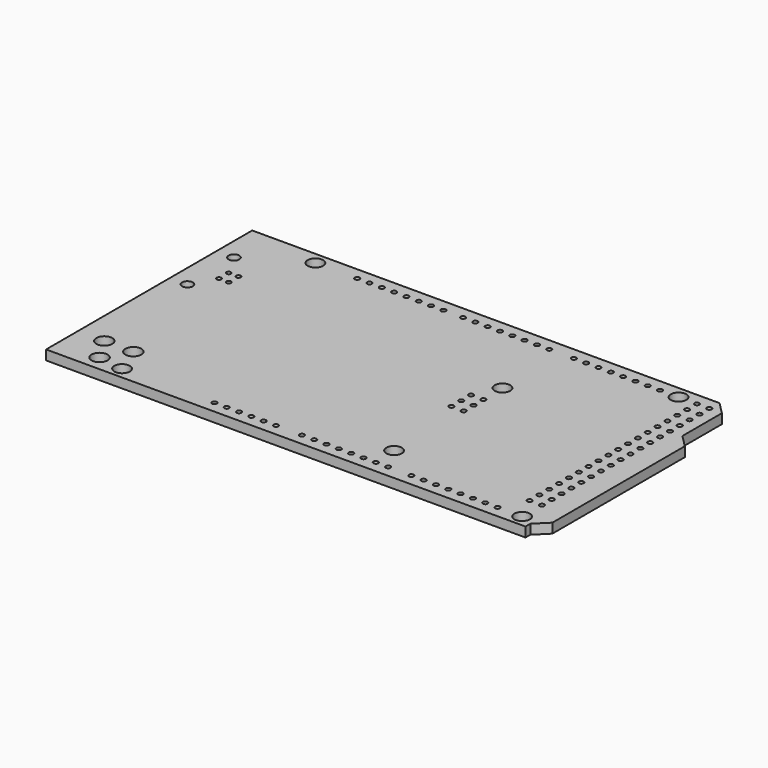
from build123d import *

# Parameters (mm, degrees)
PAD003_DEPTH        = 2
SKETCH005_R         = 1.6
POCKET001_DEPTH     = 2.001
SKETCH006_R         = 1.65
POCKET002_DEPTH     = 2.001
SKETCH007_R         = 1.1
SKETCH007_R_2       = 0.475
POCKET003_DEPTH     = 2.001
SKETCH008_R         = 0.5
POCKET004_DEPTH     = 2.001
SKETCH009_R         = 0.5
POCKET005_DEPTH     = 2.001
SKETCH010_R         = 0.5
POCKET006_DEPTH     = 2.001
SKETCH011_R         = 0.5
POCKET007_DEPTH     = 2.001
SKETCH012_R         = 0.5
POCKET008_DEPTH     = 2.001
SKETCH013_R         = 0.5
POCKET009_DEPTH     = 2.001
SKETCH014_R         = 0.5
POCKET010_DEPTH     = 2.001
SKETCH015_R         = 0.5
POCKET011_DEPTH     = 2.001
LINEARPATTERN_COUNT = 18
LINEARPATTERN_PITCH = 2.54


with BuildPart() as part:
    # Sketch004 → Pad003 (new body)
    with BuildSketch(Plane.XY):
        Polygon((-50.7275, -26.5825), (-50.7275, 26.5825), (45.6905, 26.5825), (48.1905, 24.0825), (48.1905, 13.8825), (50.7275, 11.3455), (50.7275, -22.8245), (48.1905, -25.3225), (48.1905, -26.5825), align=None)
    extrude(amount=PAD003_DEPTH)

    # Sketch005 → Pocket001 (cut, through all)
    with BuildSketch(Plane.XY.offset(2)):
        with Locations((-35.6964, 24.084)):
            Circle(SKETCH005_R)
        with Locations((39.234, 24.084)):
            Circle(SKETCH005_R)
        with Locations((-36.966, -24.176)):
            Circle(SKETCH005_R)
        with Locations((15.1, -19.1)):
            Circle(SKETCH005_R)
        with Locations((15.1, 8.844)):
            Circle(SKETCH005_R)
        with Locations((45.58, -24.18)):
            Circle(SKETCH005_R)
    extrude(amount=-POCKET001_DEPTH, mode=Mode.SUBTRACT)

    # Sketch006 → Pocket002 (cut, through all)
    with BuildSketch(Plane.XY.offset(2)):
        with Locations((-45.25, -18.41)):
            Circle(SKETCH006_R)
        with Locations((-39.25, -18.41)):
            Circle(SKETCH006_R)
        with Locations((-42.243446, -23.38666)):
            Circle(SKETCH006_R)
    extrude(amount=-POCKET002_DEPTH, mode=Mode.SUBTRACT)

    # Sketch007 → Pocket003 (cut, through all)
    with BuildSketch(Plane.XY.offset(2)):
        with Locations((-47.13, 17.38)):
            Circle(SKETCH007_R)
        with Locations((-47.13, 5.38)):
            Circle(SKETCH007_R)
        with Locations((-44.42, 12.64)):
            Circle(SKETCH007_R_2)
        with Locations((-42.42, 12.64)):
            Circle(SKETCH007_R_2)
        with Locations((-44.42, 10.14)):
            Circle(SKETCH007_R_2)
        with Locations((-42.42, 10.14)):
            Circle(SKETCH007_R_2)
    extrude(amount=-POCKET003_DEPTH, mode=Mode.SUBTRACT)

    # Sketch008 → Pocket004 (cut, through all)
    with BuildSketch(Plane.XY.offset(2)):
        with Locations((12.6801, -1.3)):
            Circle(SKETCH008_R)
        with Locations((15.2201, -1.3)):
            Circle(SKETCH008_R)
        with Locations((15.2201, 1.24)):
            Circle(SKETCH008_R)
        with Locations((12.6801, 1.24)):
            Circle(SKETCH008_R)
        with Locations((12.6801, 3.78)):
            Circle(SKETCH008_R)
        with Locations((15.2201, 3.78)):
            Circle(SKETCH008_R)
    extrude(amount=-POCKET004_DEPTH, mode=Mode.SUBTRACT)

    # Sketch009 → Pocket005 (cut, through all)
    with BuildSketch(Plane.XY.offset(2)):
        with Locations((-27.06, 24.084)):
            Circle(SKETCH009_R)
        with Locations((-24.52, 24.084)):
            Circle(SKETCH009_R)
        with Locations((-21.98, 24.084)):
            Circle(SKETCH009_R)
        with Locations((-19.44, 24.084)):
            Circle(SKETCH009_R)
        with Locations((-16.9, 24.084)):
            Circle(SKETCH009_R)
        with Locations((-14.36, 24.084)):
            Circle(SKETCH009_R)
        with Locations((-11.82, 24.084)):
            Circle(SKETCH009_R)
        with Locations((-9.28, 24.084)):
            Circle(SKETCH009_R)
    extrude(amount=-POCKET005_DEPTH, mode=Mode.SUBTRACT)

    # Sketch010 → Pocket006 (cut, through all)
    with BuildSketch(Plane.XY.offset(2)):
        with Locations((-5.216, 24.084)):
            Circle(SKETCH010_R)
        with Locations((-2.676, 24.084)):
            Circle(SKETCH010_R)
        with Locations((-0.136, 24.084)):
            Circle(SKETCH010_R)
        with Locations((2.404, 24.084)):
            Circle(SKETCH010_R)
        with Locations((4.944, 24.084)):
            Circle(SKETCH010_R)
        with Locations((7.484, 24.084)):
            Circle(SKETCH010_R)
        with Locations((10.024, 24.084)):
            Circle(SKETCH010_R)
        with Locations((12.564, 24.084)):
            Circle(SKETCH010_R)
    extrude(amount=-POCKET006_DEPTH, mode=Mode.SUBTRACT)

    # Sketch011 → Pocket007 (cut, through all)
    with BuildSketch(Plane.XY.offset(2)):
        with Locations((17.644, 24.084)):
            Circle(SKETCH011_R)
        with Locations((20.184, 24.084)):
            Circle(SKETCH011_R)
        with Locations((22.724, 24.084)):
            Circle(SKETCH011_R)
        with Locations((25.264, 24.084)):
            Circle(SKETCH011_R)
        with Locations((27.804, 24.084)):
            Circle(SKETCH011_R)
        with Locations((30.344, 24.084)):
            Circle(SKETCH011_R)
        with Locations((32.884, 24.084)):
            Circle(SKETCH011_R)
        with Locations((35.424, 24.084)):
            Circle(SKETCH011_R)
    extrude(amount=-POCKET007_DEPTH, mode=Mode.SUBTRACT)

    # Sketch012 → Pocket008 (cut, through all)
    with BuildSketch(Plane.XY.offset(2)):
        with Locations((-17.916, -24.176)):
            Circle(SKETCH012_R)
        with Locations((-15.376, -24.176)):
            Circle(SKETCH012_R)
        with Locations((-12.836, -24.176)):
            Circle(SKETCH012_R)
        with Locations((-10.296, -24.176)):
            Circle(SKETCH012_R)
        with Locations((-7.756, -24.176)):
            Circle(SKETCH012_R)
        with Locations((-5.216, -24.176)):
            Circle(SKETCH012_R)
    extrude(amount=-POCKET008_DEPTH, mode=Mode.SUBTRACT)

    # Sketch013 → Pocket009 (cut, through all)
    with BuildSketch(Plane.XY.offset(2)):
        with Locations((0.136, -24.176)):
            Circle(SKETCH013_R)
        with Locations((2.676, -24.176)):
            Circle(SKETCH013_R)
        with Locations((5.216, -24.176)):
            Circle(SKETCH013_R)
        with Locations((7.756, -24.176)):
            Circle(SKETCH013_R)
        with Locations((10.296, -24.176)):
            Circle(SKETCH013_R)
        with Locations((12.836, -24.176)):
            Circle(SKETCH013_R)
        with Locations((15.376, -24.176)):
            Circle(SKETCH013_R)
        with Locations((17.916, -24.176)):
            Circle(SKETCH013_R)
    extrude(amount=-POCKET009_DEPTH, mode=Mode.SUBTRACT)

    # Sketch014 → Pocket010 (cut, through all)
    with BuildSketch(Plane.XY.offset(2)):
        with Locations((22.724, -24.176)):
            Circle(SKETCH014_R)
        with Locations((25.264, -24.176)):
            Circle(SKETCH014_R)
        with Locations((27.804, -24.176)):
            Circle(SKETCH014_R)
        with Locations((30.344, -24.176)):
            Circle(SKETCH014_R)
        with Locations((32.884, -24.176)):
            Circle(SKETCH014_R)
        with Locations((35.424, -24.176)):
            Circle(SKETCH014_R)
        with Locations((37.964, -24.176)):
            Circle(SKETCH014_R)
        with Locations((40.504, -24.176)):
            Circle(SKETCH014_R)
    extrude(amount=-POCKET010_DEPTH, mode=Mode.SUBTRACT)

    # Sketch015 → Pocket011 (cut, through all)
    with BuildSketch(Plane.XY.offset(2)):
        with Locations((43.044, 24.084)):
            Circle(SKETCH015_R)
        with Locations((45.584, 24.084)):
            Circle(SKETCH015_R)
    pocket011 = extrude(amount=-POCKET011_DEPTH, mode=Mode.SUBTRACT)

    # LinearPattern: Pocket011 ×18
    with Locations(*[(0, -i * LINEARPATTERN_PITCH, 0) for i in range(1, LINEARPATTERN_COUNT)]):
        add(pocket011, mode=Mode.SUBTRACT)


solid = part.part
